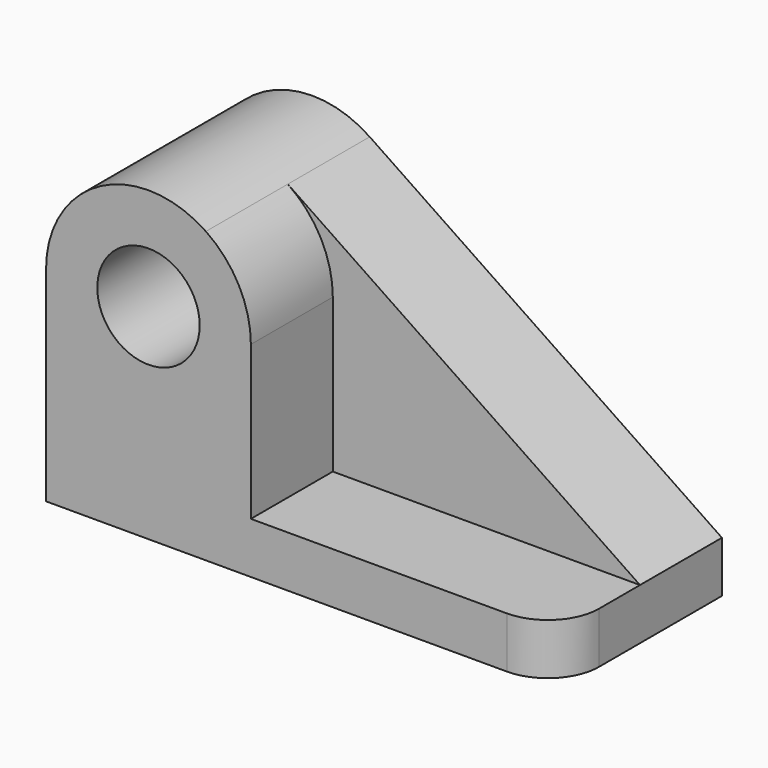
from build123d import *

# Parameters (mm, degrees)
F0_R     = 12.7
F1_DEPTH = 25.4
F2_R     = 12.7
F3_DEPTH = 25.4
F4_R     = 12.7


with BuildPart() as f1:
    # F0 (on Front) → F1 (new body)
    with BuildSketch(Plane.XZ):
        with BuildLine():
            Line((65.327206, -22.809199), (-22.034921, 36.325129))
            ThreePointArc((-22.034921, 36.325129), (-48.179053, 37.7274), (-61.672794, 15.290801))
            Line((-61.672794, 15.290801), (-61.672794, -35.509199))
            Line((-61.672794, -35.509199), (65.327206, -35.509199))
            Line((65.327206, -35.509199), (65.327206, -22.809199))
        make_face()
        with Locations((-36.272794, 15.290801)):
            Circle(F0_R, mode=Mode.SUBTRACT)
    extrude(amount=F1_DEPTH)

    # F2 (on face) → F3 (join)
    with BuildSketch(Plane.XZ.offset(25.4)):
        with BuildLine():
            Line((-10.872794, -22.809199), (-10.872794, 15.290801))
            ThreePointArc((-10.872794, 15.290801), (-13.836195, 27.19706), (-22.034921, 36.325129))
            ThreePointArc((-22.034921, 36.325129), (-48.179053, 37.7274), (-61.672794, 15.290801))
            Line((-61.672794, 15.290801), (-61.672794, -22.809199))
            Line((-61.672794, -22.809199), (-61.672794, -35.509199))
            Line((-61.672794, -35.509199), (65.327206, -35.509199))
            Line((65.327206, -35.509199), (65.327206, -22.809199))
            Line((65.327206, -22.809199), (-10.872794, -22.809199))
        make_face()
        with Locations((-36.272794, 15.290801)):
            Circle(F2_R, mode=Mode.SUBTRACT)
    extrude(amount=F3_DEPTH)

    # F4
    f4_edges = [f1.edges().sort_by_distance(p)[0] for p in [
        (65.327206, -50.8, -29.159199),
    ]]
    fillet(f4_edges, radius=F4_R)


solid = f1.part
